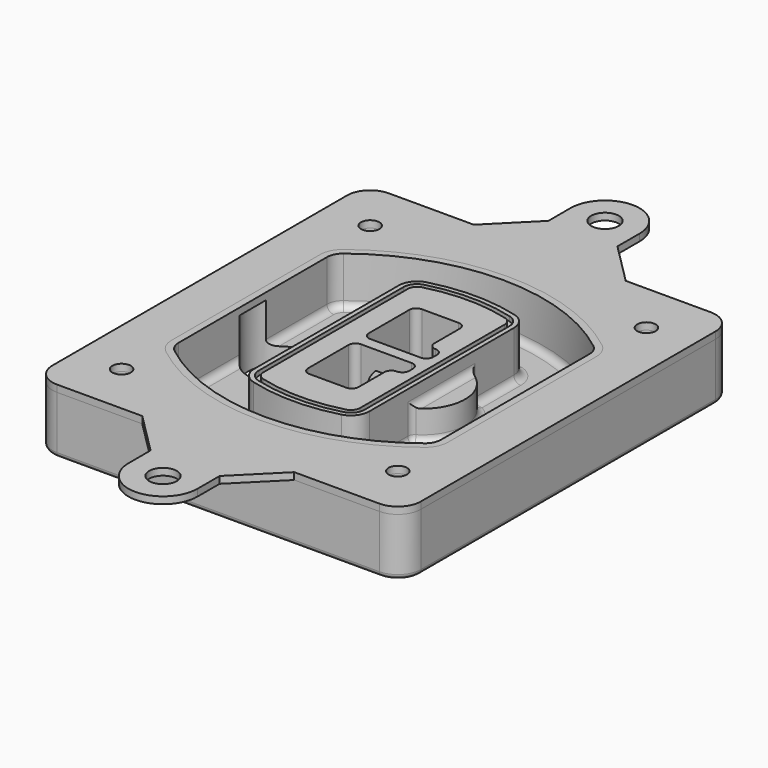
from build123d import *

# Parameters (mm, degrees)
F0_R      = 4
F1_DEPTH  = 25
F2_DEPTH  = 3
F3_DEPTH  = 18
F5_DEPTH  = 21
F6_DEPTH  = 2
F8_DEPTH  = 20
F9_DEPTH  = 16
F10_DEPTH = 25
F7_R      = 6
F7_R_2    = 4
F11_DEPTH = 6
F13_DEPTH = 9
F14_R     = 3
F15_R     = 2
F16_R     = 6
F16_R_2   = 4
F17_DEPTH = 3


with BuildPart() as f1:
    # F0 (on Top) → F1 (new body)
    with BuildSketch(Plane.XY):
        with BuildLine():
            ThreePointArc((-80, -80), (-77.0710678119, -87.0710678119), (-70, -90))
            Line((-70, -90), (70, -90))
            ThreePointArc((70, -90), (77.0710678119, -87.0710678119), (80, -80))
            Line((80, -80), (80, 80))
            ThreePointArc((80, 80), (77.0710678119, 87.0710678119), (70, 90))
            Line((70, 90), (-70, 90))
            ThreePointArc((-70, 90), (-77.0710678119, 87.0710678119), (-80, 80))
            Line((-80, 80), (-80, -80))
        make_face()
        with Locations((-60, -67.5)):
            Circle(F0_R, mode=Mode.SUBTRACT)
        with Locations((60, -67.5)):
            Circle(F0_R, mode=Mode.SUBTRACT)
        with Locations((-60, 67.5)):
            Circle(F0_R, mode=Mode.SUBTRACT)
        with BuildLine():
            ThreePointArc((-64, 40.2934422872), (-62.5820384798, 46.4328484224), (-58.6153846154, 51.3286200352))
            ThreePointArc((-58.6153846154, 51.3286200352), (0, 71.5), (58.6153846154, 51.3286200352))
            ThreePointArc((58.6153846154, 51.3286200352), (62.5820384798, 46.4328484224), (64, 40.2934422872))
            Line((64, 40.2934422872), (64, -40.2934422872))
            ThreePointArc((64, -40.2934422872), (62.5820384798, -46.4328484224), (58.6153846154, -51.3286200352))
            ThreePointArc((58.6153846154, -51.3286200352), (0, -71.5), (-58.6153846154, -51.3286200352))
            ThreePointArc((-58.6153846154, -51.3286200352), (-62.5820384798, -46.4328484224), (-64, -40.2934422872))
            Line((-64, -40.2934422872), (-64, 40.2934422872))
        make_face(mode=Mode.SUBTRACT)
        with Locations((60, 67.5)):
            Circle(F0_R, mode=Mode.SUBTRACT)
        with BuildLine():
            ThreePointArc((58.6153846154, 51.3286200352), (0, 71.5), (-58.6153846154, 51.3286200352))
            ThreePointArc((-58.6153846154, 51.3286200352), (-62.5820384798, 46.4328484224), (-64, 40.2934422872))
            Line((-64, 40.2934422872), (-64, -40.2934422872))
            ThreePointArc((-64, -40.2934422872), (-62.5820384798, -46.4328484224), (-58.6153846154, -51.3286200352))
            ThreePointArc((-58.6153846154, -51.3286200352), (0, -71.5), (58.6153846154, -51.3286200352))
            ThreePointArc((58.6153846154, -51.3286200352), (62.5820384798, -46.4328484224), (64, -40.2934422872))
            Line((64, -40.2934422872), (64, 40.2934422872))
            ThreePointArc((64, 40.2934422872), (62.5820384798, 46.4328484224), (58.6153846154, 51.3286200352))
        make_face()
        with BuildLine():
            Line((-60, -40.2934422872), (-60, 40.2934422872))
            ThreePointArc((-60, 40.2934422872), (-58.9871703427, 44.6787323838), (-56.1538461538, 48.1757121072))
            ThreePointArc((-56.1538461538, 48.1757121072), (0, 67.5), (56.1538461538, 48.1757121072))
            ThreePointArc((56.1538461538, 48.1757121072), (58.9871703427, 44.6787323838), (60, 40.2934422872))
            Line((60, 40.2934422872), (60, -40.2934422872))
            ThreePointArc((60, -40.2934422872), (58.9871703427, -44.6787323838), (56.1538461538, -48.1757121072))
            ThreePointArc((56.1538461538, -48.1757121072), (0, -67.5), (-56.1538461538, -48.1757121072))
            ThreePointArc((-56.1538461538, -48.1757121072), (-58.9871703427, -44.6787323838), (-60, -40.2934422872))
        make_face(mode=Mode.SUBTRACT)
        with BuildLine():
            ThreePointArc((-56.1538461538, 48.1757121072), (-58.9871703427, 44.6787323838), (-60, 40.2934422872))
            Line((-60, 40.2934422872), (-60, -40.2934422872))
            ThreePointArc((-60, -40.2934422872), (-58.9871703427, -44.6787323838), (-56.1538461538, -48.1757121072))
            ThreePointArc((-56.1538461538, -48.1757121072), (0, -67.5), (56.1538461538, -48.1757121072))
            ThreePointArc((56.1538461538, -48.1757121072), (58.9871703427, -44.6787323838), (60, -40.2934422872))
            Line((60, -40.2934422872), (60, 40.2934422872))
            ThreePointArc((60, 40.2934422872), (58.9871703427, 44.6787323838), (56.1538461538, 48.1757121072))
            ThreePointArc((56.1538461538, 48.1757121072), (0, 67.5), (-56.1538461538, 48.1757121072))
        make_face()
        with BuildLine():
            ThreePointArc((54.3076923077, 45.8110311612), (56.2910192399, 43.3631453548), (57, 40.2934422872))
            Line((57, 40.2934422872), (57, -40.2934422872))
            ThreePointArc((57, -40.2934422872), (56.2910192399, -43.3631453548), (54.3076923077, -45.8110311612))
            ThreePointArc((54.3076923077, -45.8110311612), (0, -64.5), (-54.3076923077, -45.8110311612))
            ThreePointArc((-54.3076923077, -45.8110311612), (-56.2910192399, -43.3631453548), (-57, -40.2934422872))
            Line((-57, -40.2934422872), (-57, 40.2934422872))
            ThreePointArc((-57, 40.2934422872), (-56.2910192399, 43.3631453548), (-54.3076923077, 45.8110311612))
            ThreePointArc((-54.3076923077, 45.8110311612), (0, 64.5), (54.3076923077, 45.8110311612))
        make_face(mode=Mode.SUBTRACT)
        with BuildLine():
            Line((57, -40.2934422872), (57, 40.2934422872))
            ThreePointArc((57, 40.2934422872), (56.2910192399, 43.3631453548), (54.3076923077, 45.8110311612))
            ThreePointArc((54.3076923077, 45.8110311612), (0, 64.5), (-54.3076923077, 45.8110311612))
            ThreePointArc((-54.3076923077, 45.8110311612), (-56.2910192399, 43.3631453548), (-57, 40.2934422872))
            Line((-57, 40.2934422872), (-57, -40.2934422872))
            ThreePointArc((-57, -40.2934422872), (-56.2910192399, -43.3631453548), (-54.3076923077, -45.8110311612))
            ThreePointArc((-54.3076923077, -45.8110311612), (0, -64.5), (54.3076923077, -45.8110311612))
            ThreePointArc((54.3076923077, -45.8110311612), (56.2910192399, -43.3631453548), (57, -40.2934422872))
        make_face()
    extrude(amount=-F1_DEPTH)

    # F0 (on Top) → F2 (join)
    with BuildSketch(Plane.XY):
        with BuildLine():
            ThreePointArc((-56.1538461538, 48.1757121072), (-58.9871703427, 44.6787323838), (-60, 40.2934422872))
            Line((-60, 40.2934422872), (-60, -40.2934422872))
            ThreePointArc((-60, -40.2934422872), (-58.9871703427, -44.6787323838), (-56.1538461538, -48.1757121072))
            ThreePointArc((-56.1538461538, -48.1757121072), (0, -67.5), (56.1538461538, -48.1757121072))
            ThreePointArc((56.1538461538, -48.1757121072), (58.9871703427, -44.6787323838), (60, -40.2934422872))
            Line((60, -40.2934422872), (60, 40.2934422872))
            ThreePointArc((60, 40.2934422872), (58.9871703427, 44.6787323838), (56.1538461538, 48.1757121072))
            ThreePointArc((56.1538461538, 48.1757121072), (0, 67.5), (-56.1538461538, 48.1757121072))
        make_face()
        with BuildLine():
            ThreePointArc((54.3076923077, 45.8110311612), (56.2910192399, 43.3631453548), (57, 40.2934422872))
            Line((57, 40.2934422872), (57, -40.2934422872))
            ThreePointArc((57, -40.2934422872), (56.2910192399, -43.3631453548), (54.3076923077, -45.8110311612))
            ThreePointArc((54.3076923077, -45.8110311612), (0, -64.5), (-54.3076923077, -45.8110311612))
            ThreePointArc((-54.3076923077, -45.8110311612), (-56.2910192399, -43.3631453548), (-57, -40.2934422872))
            Line((-57, -40.2934422872), (-57, 40.2934422872))
            ThreePointArc((-57, 40.2934422872), (-56.2910192399, 43.3631453548), (-54.3076923077, 45.8110311612))
            ThreePointArc((-54.3076923077, 45.8110311612), (0, 64.5), (54.3076923077, 45.8110311612))
        make_face(mode=Mode.SUBTRACT)
    extrude(amount=F2_DEPTH)

    # F0 (on Top) → F3 (cut)
    with BuildSketch(Plane.XY):
        with BuildLine():
            Line((57, -40.2934422872), (57, 40.2934422872))
            ThreePointArc((57, 40.2934422872), (56.2910192399, 43.3631453548), (54.3076923077, 45.8110311612))
            ThreePointArc((54.3076923077, 45.8110311612), (0, 64.5), (-54.3076923077, 45.8110311612))
            ThreePointArc((-54.3076923077, 45.8110311612), (-56.2910192399, 43.3631453548), (-57, 40.2934422872))
            Line((-57, 40.2934422872), (-57, -40.2934422872))
            ThreePointArc((-57, -40.2934422872), (-56.2910192399, -43.3631453548), (-54.3076923077, -45.8110311612))
            ThreePointArc((-54.3076923077, -45.8110311612), (0, -64.5), (54.3076923077, -45.8110311612))
            ThreePointArc((54.3076923077, -45.8110311612), (56.2910192399, -43.3631453548), (57, -40.2934422872))
        make_face()
    extrude(amount=-F3_DEPTH, mode=Mode.SUBTRACT)

    # F4 (on face) → F5 (join, through all)
    with BuildSketch(Plane.XY.offset(3)):
        with BuildLine():
            ThreePointArc((-25, -39.2465276821), (-23.3511545998, -44.1109737193), (-19.0842911877, -46.9702398883))
            ThreePointArc((-19.0842911877, -46.9702398883), (0, -49.5), (19.0842911877, -46.9702398883))
            ThreePointArc((19.0842911877, -46.9702398883), (23.3511545998, -44.1109737193), (25, -39.2465276821))
            Line((25, -39.2465276821), (25, 39.2465276821))
            ThreePointArc((25, 39.2465276821), (23.3511545998, 44.1109737193), (19.0842911877, 46.9702398883))
            ThreePointArc((19.0842911877, 46.9702398883), (0, 49.5), (-19.0842911877, 46.9702398883))
            ThreePointArc((-19.0842911877, 46.9702398883), (-23.3511545998, 44.1109737193), (-25, 39.2465276821))
            Line((-25, 39.2465276821), (-25, -39.2465276821))
        make_face()
        with BuildLine():
            ThreePointArc((18.5632183908, 45.0393118368), (21.7633659499, 42.89486221), (23, 39.2465276821))
            Line((23, 39.2465276821), (23, -39.2465276821))
            ThreePointArc((23, -39.2465276821), (21.7633659499, -42.89486221), (18.5632183908, -45.0393118368))
            ThreePointArc((18.5632183908, -45.0393118368), (0, -47.5), (-18.5632183908, -45.0393118368))
            ThreePointArc((-18.5632183908, -45.0393118368), (-21.7633659499, -42.89486221), (-23, -39.2465276821))
            Line((-23, -39.2465276821), (-23, 39.2465276821))
            ThreePointArc((-23, 39.2465276821), (-21.7633659499, 42.89486221), (-18.5632183908, 45.0393118368))
            ThreePointArc((-18.5632183908, 45.0393118368), (0, 47.5), (18.5632183908, 45.0393118368))
        make_face(mode=Mode.SUBTRACT)
        with BuildLine():
            Line((23, -39.2465276821), (23, 39.2465276821))
            ThreePointArc((23, 39.2465276821), (21.7633659499, 42.89486221), (18.5632183908, 45.0393118368))
            ThreePointArc((18.5632183908, 45.0393118368), (0, 47.5), (-18.5632183908, 45.0393118368))
            ThreePointArc((-18.5632183908, 45.0393118368), (-21.7633659499, 42.89486221), (-23, 39.2465276821))
            Line((-23, 39.2465276821), (-23, -39.2465276821))
            ThreePointArc((-23, -39.2465276821), (-21.7633659499, -42.89486221), (-18.5632183908, -45.0393118368))
            ThreePointArc((-18.5632183908, -45.0393118368), (0, -47.5), (18.5632183908, -45.0393118368))
            ThreePointArc((18.5632183908, -45.0393118368), (21.7633659499, -42.89486221), (23, -39.2465276821))
        make_face()
        with BuildLine():
            ThreePointArc((18.0421455939, 43.1083837852), (20.1755772999, 41.6787507007), (21, 39.2465276821))
            Line((21, 39.2465276821), (21, -39.2465276821))
            ThreePointArc((21, -39.2465276821), (20.1755772999, -41.6787507007), (18.0421455939, -43.1083837852))
            ThreePointArc((18.0421455939, -43.1083837852), (0, -45.5), (-18.0421455939, -43.1083837852))
            ThreePointArc((-18.0421455939, -43.1083837852), (-20.1755772999, -41.6787507007), (-21, -39.2465276821))
            Line((-21, -39.2465276821), (-21, 39.2465276821))
            ThreePointArc((-21, 39.2465276821), (-20.1755772999, 41.6787507007), (-18.0421455939, 43.1083837852))
            ThreePointArc((-18.0421455939, 43.1083837852), (0, 45.5), (18.0421455939, 43.1083837852))
        make_face(mode=Mode.SUBTRACT)
        with BuildLine():
            Line((21, -39.2465276821), (21, 39.2465276821))
            ThreePointArc((21, 39.2465276821), (20.1755772999, 41.6787507007), (18.0421455939, 43.1083837852))
            ThreePointArc((18.0421455939, 43.1083837852), (0, 45.5), (-18.0421455939, 43.1083837852))
            ThreePointArc((-18.0421455939, 43.1083837852), (-20.1755772999, 41.6787507007), (-21, 39.2465276821))
            Line((-21, 39.2465276821), (-21, -39.2465276821))
            ThreePointArc((-21, -39.2465276821), (-20.1755772999, -41.6787507007), (-18.0421455939, -43.1083837852))
            ThreePointArc((-18.0421455939, -43.1083837852), (0, -45.5), (18.0421455939, -43.1083837852))
            ThreePointArc((18.0421455939, -43.1083837852), (20.1755772999, -41.6787507007), (21, -39.2465276821))
        make_face()
        with BuildLine():
            Line((-8, -2.5), (14, -2.5))
            ThreePointArc((14, -2.5), (16.1213203436, -3.3786796564), (17, -5.5))
            Line((17, -5.5), (17, -7.5))
            ThreePointArc((17, -7.5), (16.1213203436, -9.6213203436), (14, -10.5))
            ThreePointArc((14, -10.5), (11.8786796564, -11.3786796564), (11, -13.5))
            Line((11, -13.5), (11, -27.5))
            ThreePointArc((11, -27.5), (10.1213203436, -29.6213203436), (8, -30.5))
            Line((8, -30.5), (-8, -30.5))
            ThreePointArc((-8, -30.5), (-10.1213203436, -29.6213203436), (-11, -27.5))
            Line((-11, -27.5), (-11, -5.5))
            ThreePointArc((-11, -5.5), (-10.1213203436, -3.3786796564), (-8, -2.5))
        make_face(mode=Mode.SUBTRACT)
        with BuildLine():
            ThreePointArc((-8, 2.5), (-10.1213203436, 3.3786796564), (-11, 5.5))
            Line((-11, 5.5), (-11, 27.5))
            ThreePointArc((-11, 27.5), (-10.1213203436, 29.6213203436), (-8, 30.5))
            Line((-8, 30.5), (8, 30.5))
            ThreePointArc((8, 30.5), (10.1213203436, 29.6213203436), (11, 27.5))
            Line((11, 27.5), (11, 13.5))
            ThreePointArc((11, 13.5), (11.8786796564, 11.3786796564), (14, 10.5))
            ThreePointArc((14, 10.5), (16.1213203436, 9.6213203436), (17, 7.5))
            Line((17, 7.5), (17, 5.5))
            ThreePointArc((17, 5.5), (16.1213203436, 3.3786796564), (14, 2.5))
            Line((14, 2.5), (-8, 2.5))
        make_face(mode=Mode.SUBTRACT)
    extrude(amount=-F5_DEPTH)

    # F4 (on face) → F6 (cut)
    with BuildSketch(Plane.XY.offset(3)):
        with BuildLine():
            Line((23, -39.2465276821), (23, 39.2465276821))
            ThreePointArc((23, 39.2465276821), (21.7633659499, 42.89486221), (18.5632183908, 45.0393118368))
            ThreePointArc((18.5632183908, 45.0393118368), (0, 47.5), (-18.5632183908, 45.0393118368))
            ThreePointArc((-18.5632183908, 45.0393118368), (-21.7633659499, 42.89486221), (-23, 39.2465276821))
            Line((-23, 39.2465276821), (-23, -39.2465276821))
            ThreePointArc((-23, -39.2465276821), (-21.7633659499, -42.89486221), (-18.5632183908, -45.0393118368))
            ThreePointArc((-18.5632183908, -45.0393118368), (0, -47.5), (18.5632183908, -45.0393118368))
            ThreePointArc((18.5632183908, -45.0393118368), (21.7633659499, -42.89486221), (23, -39.2465276821))
        make_face()
        with BuildLine():
            ThreePointArc((18.0421455939, 43.1083837852), (20.1755772999, 41.6787507007), (21, 39.2465276821))
            Line((21, 39.2465276821), (21, -39.2465276821))
            ThreePointArc((21, -39.2465276821), (20.1755772999, -41.6787507007), (18.0421455939, -43.1083837852))
            ThreePointArc((18.0421455939, -43.1083837852), (0, -45.5), (-18.0421455939, -43.1083837852))
            ThreePointArc((-18.0421455939, -43.1083837852), (-20.1755772999, -41.6787507007), (-21, -39.2465276821))
            Line((-21, -39.2465276821), (-21, 39.2465276821))
            ThreePointArc((-21, 39.2465276821), (-20.1755772999, 41.6787507007), (-18.0421455939, 43.1083837852))
            ThreePointArc((-18.0421455939, 43.1083837852), (0, 45.5), (18.0421455939, 43.1083837852))
        make_face(mode=Mode.SUBTRACT)
    extrude(amount=-F6_DEPTH, mode=Mode.SUBTRACT)

    # F7 (on face) → F8 (join)
    with BuildSketch(Plane(origin=(0, 0, -25), x_dir=(1, 0, 0), z_dir=(0, 0, -1))):
        with BuildLine():
            ThreePointArc((3.28842436, 0), (16.7567035675, 13.4682792075), (30.224982775, 0))
            Line((30.224982775, 0), (35.224982775, 0))
            ThreePointArc((35.224982775, 0), (16.7567035675, 18.4682792075), (-1.71157564, 0))
            Line((-1.71157564, 0), (3.28842436, 0))
        make_face()
        with BuildLine():
            Line((3.28842436, 0), (30.224982775, 0))
            ThreePointArc((30.224982775, 0), (16.7567035675, 13.4682792075), (3.28842436, 0))
        make_face()
        with BuildLine():
            ThreePointArc((3.28842436, 0), (16.7567035675, -13.4682792075), (30.224982775, 0))
            Line((30.224982775, 0), (3.28842436, 0))
        make_face()
        with BuildLine():
            Line((35.224982775, 0), (30.224982775, 0))
            ThreePointArc((30.224982775, 0), (16.7567035675, -13.4682792075), (3.28842436, 0))
            Line((3.28842436, 0), (-1.71157564, 0))
            ThreePointArc((-1.71157564, 0), (16.7567035675, -18.4682792075), (35.224982775, 0))
        make_face()
    extrude(amount=-F8_DEPTH)

    # F7 (on face) → F9 (cut)
    with BuildSketch(Plane(origin=(0, 0, -25), x_dir=(1, 0, 0), z_dir=(0, 0, -1))):
        with BuildLine():
            Line((3.28842436, 0), (30.224982775, 0))
            ThreePointArc((30.224982775, 0), (16.7567035675, 13.4682792075), (3.28842436, 0))
        make_face()
        with BuildLine():
            ThreePointArc((3.28842436, 0), (16.7567035675, -13.4682792075), (30.224982775, 0))
            Line((30.224982775, 0), (3.28842436, 0))
        make_face()
    extrude(amount=-F9_DEPTH, mode=Mode.SUBTRACT)

    # F7 (on face) → F10 (cut)
    with BuildSketch(Plane(origin=(0, 0, -25), x_dir=(1, 0, 0), z_dir=(0, 0, -1))):
        with BuildLine():
            Line((-59.0318229325, 0), (-32.0952645175, 0))
            ThreePointArc((-32.0952645175, 0), (-45.563543725, 13.4682792075), (-59.0318229325, 0))
        make_face()
        with BuildLine():
            ThreePointArc((-59.0318229325, 0), (-45.563543725, -13.4682792075), (-32.0952645175, 0))
            Line((-32.0952645175, 0), (-59.0318229325, 0))
        make_face()
    extrude(amount=-F10_DEPTH, mode=Mode.SUBTRACT)

    # F7 (on face) → F11 (cut)
    with BuildSketch(Plane(origin=(0, 0, -25), x_dir=(1, 0, 0), z_dir=(0, 0, -1))):
        with Locations((60, -67.5)):
            Circle(F7_R)
        with Locations((60, -67.5)):
            Circle(F7_R_2, mode=Mode.SUBTRACT)
        with Locations((60, -67.5)):
            Circle(F7_R)
        with Locations((60, -67.5)):
            Circle(F7_R_2, mode=Mode.SUBTRACT)
        with Locations((-60, -67.5)):
            Circle(F7_R)
        with Locations((-60, -67.5)):
            Circle(F7_R_2, mode=Mode.SUBTRACT)
        with Locations((-60, -67.5)):
            Circle(F7_R)
        with Locations((-60, -67.5)):
            Circle(F7_R_2, mode=Mode.SUBTRACT)
        with Locations((-60, 67.5)):
            Circle(F7_R)
        with Locations((-60, 67.5)):
            Circle(F7_R_2, mode=Mode.SUBTRACT)
        with Locations((-60, 67.5)):
            Circle(F7_R)
        with Locations((-60, 67.5)):
            Circle(F7_R_2, mode=Mode.SUBTRACT)
        with Locations((60, 67.5)):
            Circle(F7_R)
        with Locations((60, 67.5)):
            Circle(F7_R_2, mode=Mode.SUBTRACT)
        with Locations((60, 67.5)):
            Circle(F7_R)
        with Locations((60, 67.5)):
            Circle(F7_R_2, mode=Mode.SUBTRACT)
    extrude(amount=-F11_DEPTH, mode=Mode.SUBTRACT)

    # F12 (on face) → F13 (cut, through all)
    with BuildSketch(Plane(origin=(0, 0, -9), x_dir=(1, 0, 0), z_dir=(0, 0, -1))):
        with BuildLine():
            Line((11, 13.5), (11, 17.5481537753))
            ThreePointArc((11, 17.5481537753), (2.5696536419, 11.8239143813), (-1.5415842455, 2.5))
            Line((-1.5415842455, 2.5), (3.5224848595, 2.5))
            ThreePointArc((3.5224848595, 2.5), (6.1857188154, 8.3455872281), (11.2536447004, 12.2927168648))
            ThreePointArc((11.2536447004, 12.2927168648), (11.0640958889, 12.8831798879), (11, 13.5))
        make_face()
        with BuildLine():
            ThreePointArc((11.2536447004, -12.2927168648), (6.1857188154, -8.3455872281), (3.5224848595, -2.5))
            Line((3.5224848595, -2.5), (-1.5415842455, -2.5))
            ThreePointArc((-1.5415842455, -2.5), (2.5696536419, -11.8239143813), (11, -17.5481537753))
            Line((11, -17.5481537753), (11, -13.5))
            ThreePointArc((11, -13.5), (11.0640958889, -12.8831798879), (11.2536447004, -12.2927168648))
        make_face()
        with BuildLine():
            ThreePointArc((11.2536447004, 12.2927168648), (6.1857188154, 8.3455872281), (3.5224848595, 2.5))
            Line((3.5224848595, 2.5), (14, 2.5))
            ThreePointArc((14, 2.5), (16.1213203436, 3.3786796564), (17, 5.5))
            Line((17, 5.5), (17, 7.5))
            ThreePointArc((17, 7.5), (16.1213203436, 9.6213203436), (14, 10.5))
            ThreePointArc((14, 10.5), (12.3601599782, 10.9878446101), (11.2536447004, 12.2927168648))
        make_face()
        with BuildLine():
            Line((14, -2.5), (3.5224848595, -2.5))
            ThreePointArc((3.5224848595, -2.5), (6.1857188154, -8.3455872281), (11.2536447004, -12.2927168648))
            ThreePointArc((11.2536447004, -12.2927168648), (12.3601599782, -10.9878446101), (14, -10.5))
            ThreePointArc((14, -10.5), (16.1213203436, -9.6213203436), (17, -7.5))
            Line((17, -7.5), (17, -5.5))
            ThreePointArc((17, -5.5), (16.1213203436, -3.3786796564), (14, -2.5))
        make_face()
    extrude(amount=F13_DEPTH, mode=Mode.SUBTRACT)

    # F14
    f14_edges = [f1.edges().sort_by_distance(p)[0] for p in [
        (-57, -23.703476, -18),
        (-57, 23.703476, -18),
        (25, 0, -5),
        (25, 16.526506, -11.5),
        (25, -16.526506, -11.5),
        (25, -27.886517, -18),
        (35.224983, 0, -18),
    ]]
    fillet(f14_edges, radius=F14_R)

    # F15
    f15_edges = [f1.edges().sort_by_distance(p)[0] for p in [
        (0, -90, -25),
    ]]
    fillet(f15_edges, radius=F15_R)


with BuildPart() as f17:
    # F16 (on face) → F17 (new body, through all)
    with BuildSketch(Plane.XY):
        with BuildLine():
            Line((-15, 108), (-33, 90))
            Line((-33, 90), (33, 90))
            Line((33, 90), (15, 108))
            Line((15, 108), (15, 120))
            ThreePointArc((15, 120), (0, 135), (-15, 120))
            Line((-15, 120), (-15, 108))
        make_face()
        with Locations((0, 120)):
            Circle(F16_R, mode=Mode.SUBTRACT)
        with BuildLine():
            Line((-80, 80), (-80, -80))
            ThreePointArc((-80, -80), (-77.0710678119, -87.0710678119), (-70, -90))
            Line((-70, -90), (-33, -90))
            Line((-33, -90), (33, -90))
            Line((33, -90), (70, -90))
            ThreePointArc((70, -90), (77.0710678119, -87.0710678119), (80, -80))
            Line((80, -80), (80, 80))
            ThreePointArc((80, 80), (77.0710678119, 87.0710678119), (70, 90))
            Line((70, 90), (33, 90))
            Line((33, 90), (-33, 90))
            Line((-33, 90), (-70, 90))
            ThreePointArc((-70, 90), (-77.0710678119, 87.0710678119), (-80, 80))
        make_face()
        with Locations((-60, -67.5)):
            Circle(F16_R_2, mode=Mode.SUBTRACT)
        with Locations((60, -67.5)):
            Circle(F16_R_2, mode=Mode.SUBTRACT)
        with Locations((-60, 67.5)):
            Circle(F16_R_2, mode=Mode.SUBTRACT)
        with BuildLine():
            ThreePointArc((-56.1538461538, 48.1757121072), (0, 67.5), (56.1538461538, 48.1757121072))
            ThreePointArc((56.1538461538, 48.1757121072), (58.9871703427, 44.6787323838), (60, 40.2934422872))
            Line((60, 40.2934422872), (60, -40.2934422872))
            ThreePointArc((60, -40.2934422872), (58.9871703427, -44.6787323838), (56.1538461538, -48.1757121072))
            ThreePointArc((56.1538461538, -48.1757121072), (0, -67.5), (-56.1538461538, -48.1757121072))
            ThreePointArc((-56.1538461538, -48.1757121072), (-58.9871703427, -44.6787323838), (-60, -40.2934422872))
            Line((-60, -40.2934422872), (-60, 40.2934422872))
            ThreePointArc((-60, 40.2934422872), (-58.9871703427, 44.6787323838), (-56.1538461538, 48.1757121072))
        make_face(mode=Mode.SUBTRACT)
        with Locations((60, 67.5)):
            Circle(F16_R_2, mode=Mode.SUBTRACT)
        with BuildLine():
            Line((33, -90), (-33, -90))
            Line((-33, -90), (-15, -108))
            Line((-15, -108), (-15, -120))
            ThreePointArc((-15, -120), (0, -135), (15, -120))
            Line((15, -120), (15, -108))
            Line((15, -108), (33, -90))
        make_face()
        with Locations((0, -120)):
            Circle(F16_R, mode=Mode.SUBTRACT)
    extrude(amount=F17_DEPTH)


solid = Compound([f1.part, f17.part])
